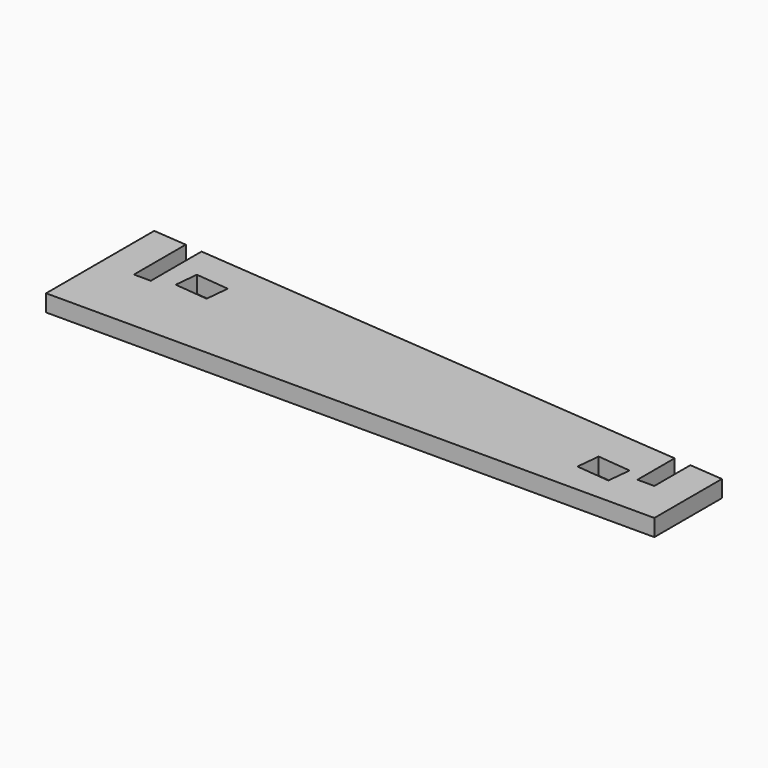
from build123d import *

# Parameters (mm, degrees)
F0_W     = 180
F0_H     = 40
F1_DEPTH = 5
F3_DEPTH = 25
F5_DEPTH = 25
F7_DEPTH = 25


with BuildPart() as f1:
    # F0 (on Top) → F1 (new body)
    with BuildSketch(Plane.XY):
        Rectangle(F0_W, F0_H)
    extrude(amount=F1_DEPTH)

    # F2 (on face) → F3 (cut)
    with BuildSketch(Plane.XY.offset(5)):
        Polygon((90, 20), (-90, 20), (90, 5), align=None)
    extrude(amount=-F3_DEPTH, mode=Mode.SUBTRACT)

    # F4 (on face) → F5 (cut)
    with BuildSketch(Plane.XY.offset(5)):
        Polygon((-75, 18.75), (-80, 19.1666666667), (-80, 0), (-75, 0), align=None)
        Polygon((80, 5.8333333333), (75, 6.25), (75, -7.5), (80, -7.5), align=None)
    extrude(amount=-F5_DEPTH, mode=Mode.SUBTRACT)

    # F6 (on face) → F7 (cut)
    with BuildSketch(Plane(origin=(0, 0, 0), x_dir=(1, 0, 0), z_dir=(0, 0, -1))):
        Polygon((-59.3428026841, -1.0552439201), (-69.2922490445, -2.0594934524), (-68.5892743718, -9.0241059046), (-58.6398280115, -8.0198563723), align=None)
        Polygon((70, 12), (60.0505536397, 10.9957504677), (60.7535283123, 4.0311380155), (70.7029746726, 5.0353875478), align=None)
    extrude(amount=-F7_DEPTH, mode=Mode.SUBTRACT)


solid = f1.part
